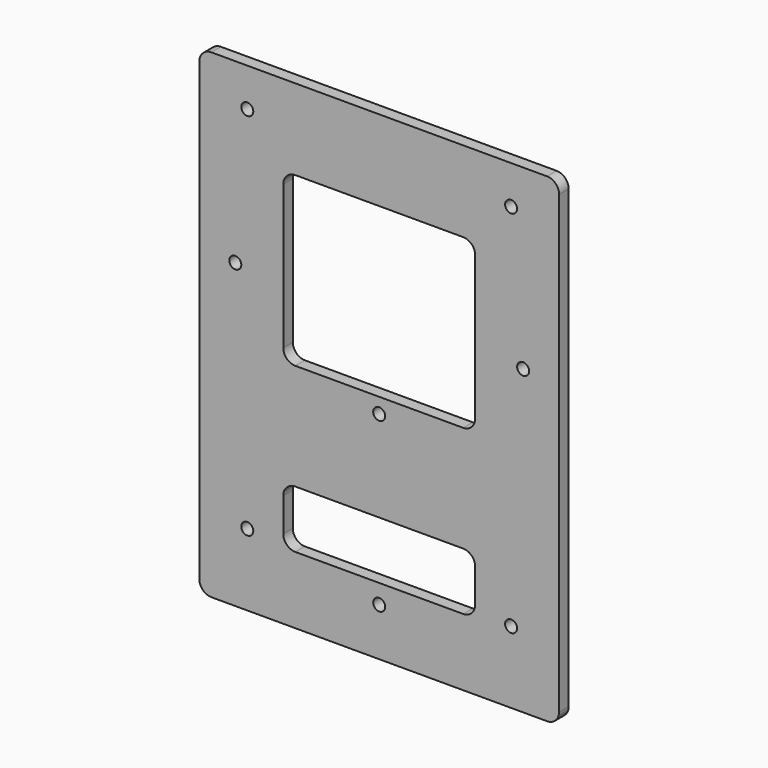
from build123d import *

# Parameters (mm, degrees)
F0_R     = 1.5875
F1_DEPTH = 3.175


with BuildPart() as f1:
    # F0 (on Front) → F1 (new body)
    with BuildSketch(Plane.XZ):
        with BuildLine():
            Line((92.075, 0), (3.175, 0))
            ThreePointArc((3.175, 0), (0.929936, -0.929936), (0, -3.175))
            Line((0, -3.175), (0, -123.825))
            ThreePointArc((0, -123.825), (0.929936, -126.070064), (3.175, -127))
            Line((3.175, -127), (92.075, -127))
            ThreePointArc((92.075, -127), (94.320064, -126.070064), (95.25, -123.825))
            Line((95.25, -123.825), (95.25, -3.175))
            ThreePointArc((95.25, -3.175), (94.320064, -0.929936), (92.075, 0))
        make_face()
        with Locations((12.7, -107.95)):
            Circle(F0_R, mode=Mode.SUBTRACT)
        with Locations((47.625, -114.3)):
            Circle(F0_R, mode=Mode.SUBTRACT)
        with BuildLine():
            Line((25.4, -93.98), (69.85, -93.98))
            ThreePointArc((69.85, -93.98), (72.095064, -94.909936), (73.025, -97.155))
            Line((73.025, -97.155), (73.025, -106.045))
            ThreePointArc((73.025, -106.045), (72.095064, -108.290064), (69.85, -109.22))
            Line((69.85, -109.22), (25.4, -109.22))
            ThreePointArc((25.4, -109.22), (23.154936, -108.290064), (22.225, -106.045))
            Line((22.225, -106.045), (22.225, -97.155))
            ThreePointArc((22.225, -97.155), (23.154936, -94.909936), (25.4, -93.98))
        make_face(mode=Mode.SUBTRACT)
        with Locations((82.55, -107.95)):
            Circle(F0_R, mode=Mode.SUBTRACT)
        with Locations((47.625, -69.85)):
            Circle(F0_R, mode=Mode.SUBTRACT)
        with Locations((9.525, -46.954749)):
            Circle(F0_R, mode=Mode.SUBTRACT)
        with Locations((12.7, -10.16)):
            Circle(F0_R, mode=Mode.SUBTRACT)
        with BuildLine():
            ThreePointArc((22.225, -24.564049), (23.154936, -22.318984), (25.4, -21.389049))
            Line((25.4, -21.389049), (69.85, -21.389049))
            ThreePointArc((69.85, -21.389049), (72.095064, -22.318984), (73.025, -24.564049))
            Line((73.025, -24.564049), (73.025, -62.664049))
            ThreePointArc((73.025, -62.664049), (72.095064, -64.909113), (69.85, -65.839049))
            Line((69.85, -65.839049), (25.4, -65.839049))
            ThreePointArc((25.4, -65.839049), (23.154936, -64.909113), (22.225, -62.664049))
            Line((22.225, -62.664049), (22.225, -24.564049))
        make_face(mode=Mode.SUBTRACT)
        with Locations((85.725, -46.954749)):
            Circle(F0_R, mode=Mode.SUBTRACT)
        with Locations((82.55, -10.16)):
            Circle(F0_R, mode=Mode.SUBTRACT)
    extrude(amount=F1_DEPTH)


solid = f1.part
